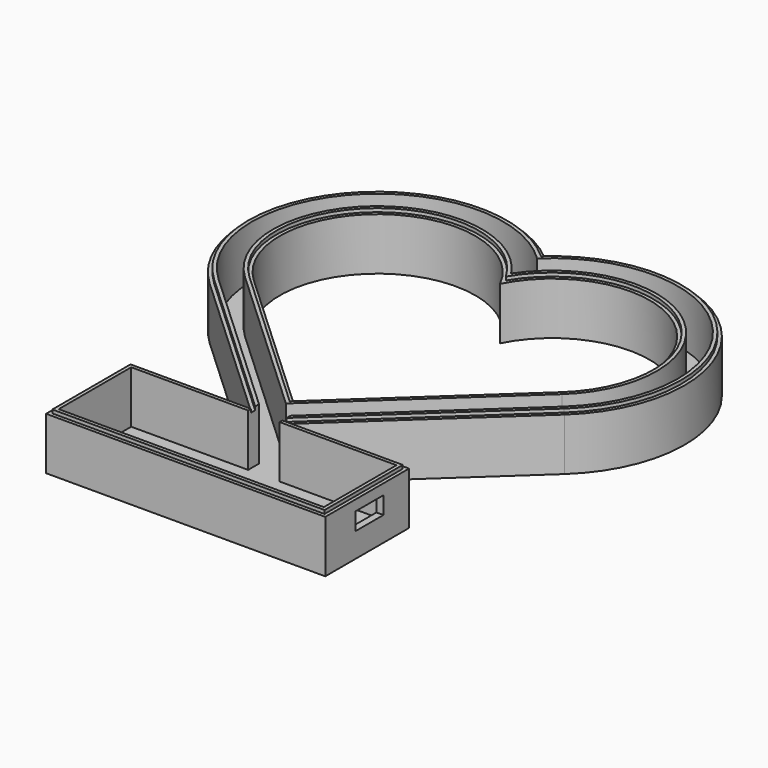
from build123d import *

# Parameters (mm, degrees)
PAD_DEPTH       = 30
PAD003_DEPTH    = 32
POCKET_DEPTH    = 30
PAD004_DEPTH    = 32
POCKET004_DEPTH = 2
POCKET001_DEPTH = 32.001
SKETCH004_W     = 160
SKETCH004_H     = 60
PAD002_DEPTH    = 30
SKETCH005_W     = 156
SKETCH005_H     = 56
PAD005_DEPTH    = 32
SKETCH009_W     = 152
SKETCH009_H     = 52
POCKET006_DEPTH = 30
SKETCH006_W     = 18
SKETCH006_H     = 12
POCKET005_DEPTH = 30
SKETCH010_W     = 20
SKETCH010_H     = 10
POCKET007_DEPTH = 5
SKETCH011_W     = 26
SKETCH011_H     = 26
POCKET008_DEPTH = 2.5


with BuildPart() as part:
    # Sketch001 → Pad (new body)
    with BuildSketch(Plane.XY):
        with BuildLine():
            ThreePointArc((0, 57.236352), (-106.486482, 50.845622), (-101.68, -55.72412))
            Line((-101.68, -55.72412), (0, -150.0248))
            Line((0, -150.0248), (101.68, -55.72412))
            ThreePointArc((101.68, -55.72412), (106.486482, 50.845622), (0, 57.236352))
        make_face()
    extrude(amount=PAD_DEPTH)

    # Sketch002 → Pad003 (join)
    with BuildSketch(Plane.XY):
        with BuildLine():
            ThreePointArc((0, 54.552727), (-104.405447, 50.160217), (-100.32, -54.257696))
            Line((-100.32, -54.257696), (0, -147.297076))
            Line((0, -147.297076), (100.32, -54.257696))
            ThreePointArc((100.32, -54.257696), (104.405447, 50.160217), (0, 54.552727))
        make_face()
    extrude(amount=PAD003_DEPTH)

    # Sketch007 → Pocket (cut)
    with BuildSketch(Plane.XY.offset(32)):
        with BuildLine():
            ThreePointArc((0, 51.807335), (-102.301889, 49.482446), (-98.96, -52.791272))
            Line((-98.96, -52.791272), (0, -144.569352))
            Line((0, -144.569352), (98.96, -52.791272))
            ThreePointArc((98.96, -52.791272), (102.301889, 49.482446), (0, 51.807335))
        make_face()
    extrude(amount=-POCKET_DEPTH, mode=Mode.SUBTRACT)

    # Sketch008 → Pad004 (join)
    with BuildSketch(Plane.XY):
        with BuildLine():
            ThreePointArc((0, 33.166248), (-88.852758, 45.721583), (-90.8, -43.992727))
            Line((-90.8, -43.992727), (0, -128.203011))
            Line((0, -128.203011), (90.8, -43.992727))
            ThreePointArc((90.8, -43.992727), (88.852758, 45.721583), (0, 33.166248))
        make_face()
    extrude(amount=PAD004_DEPTH)

    # Sketch003 → Pocket004 (cut)
    with BuildSketch(Plane.XY.offset(32)):
        with BuildLine():
            ThreePointArc((0, 29.393877), (-86.345652, 45.199486), (-89.44, -42.526302))
            Line((-89.44, -42.526302), (0, -125.475287))
            Line((0, -125.475287), (89.44, -42.526302))
            ThreePointArc((89.44, -42.526302), (86.345652, 45.199486), (0, 29.393877))
        make_face()
    extrude(amount=-POCKET004_DEPTH, mode=Mode.SUBTRACT)

    # Sketch → Pocket001 (cut, through all)
    with BuildSketch(Plane.XY.offset(32)):
        with BuildLine():
            ThreePointArc((0, 25.21904), (-83.671135, 44.74656), (-88.08, -41.059878))
            Line((-88.08, -41.059878), (0, -122.747563))
            Line((0, -122.747563), (88.08, -41.059878))
            ThreePointArc((88.08, -41.059878), (83.671135, 44.74656), (0, 25.21904))
        make_face()
    extrude(amount=-POCKET001_DEPTH, mode=Mode.SUBTRACT)

    # Sketch004 → Pad002 (join)
    with BuildSketch(Plane.XY):
        with Locations((0, -170)):
            Rectangle(SKETCH004_W, SKETCH004_H)
    extrude(amount=PAD002_DEPTH)

    # Sketch005 → Pad005 (join)
    with BuildSketch(Plane.XY):
        with Locations((0, -170)):
            Rectangle(SKETCH005_W, SKETCH005_H)
    extrude(amount=PAD005_DEPTH)

    # Sketch009 → Pocket006 (cut)
    with BuildSketch(Plane.XY.offset(32)):
        with Locations((0, -170)):
            Rectangle(SKETCH009_W, SKETCH009_H)
    extrude(amount=-POCKET006_DEPTH, mode=Mode.SUBTRACT)

    # Sketch006 → Pocket005 (cut)
    with BuildSketch(Plane.XY.offset(32)):
        with Locations((0, -142.076699)):
            Rectangle(SKETCH006_W, SKETCH006_H)
    extrude(amount=-POCKET005_DEPTH, mode=Mode.SUBTRACT)

    # Sketch010 → Pocket007 (cut, symmetric)
    with BuildSketch(Plane.YZ.offset(80)):
        with Locations((-168.343253, 19)):
            Rectangle(SKETCH010_W, SKETCH010_H)
    extrude(amount=POCKET007_DEPTH, both=True, mode=Mode.SUBTRACT)

    # Sketch011 → Pocket008 (cut, symmetric)
    with BuildSketch(Plane.XY):
        with Locations((-41, -169.18593)):
            Rectangle(SKETCH011_W, SKETCH011_H)
        with Locations((0, -169.18593)):
            Rectangle(SKETCH011_W, SKETCH011_H)
        with Locations((41, -169.18593)):
            Rectangle(SKETCH011_W, SKETCH011_H)
    extrude(amount=POCKET008_DEPTH, both=True, mode=Mode.SUBTRACT)


solid = part.part
